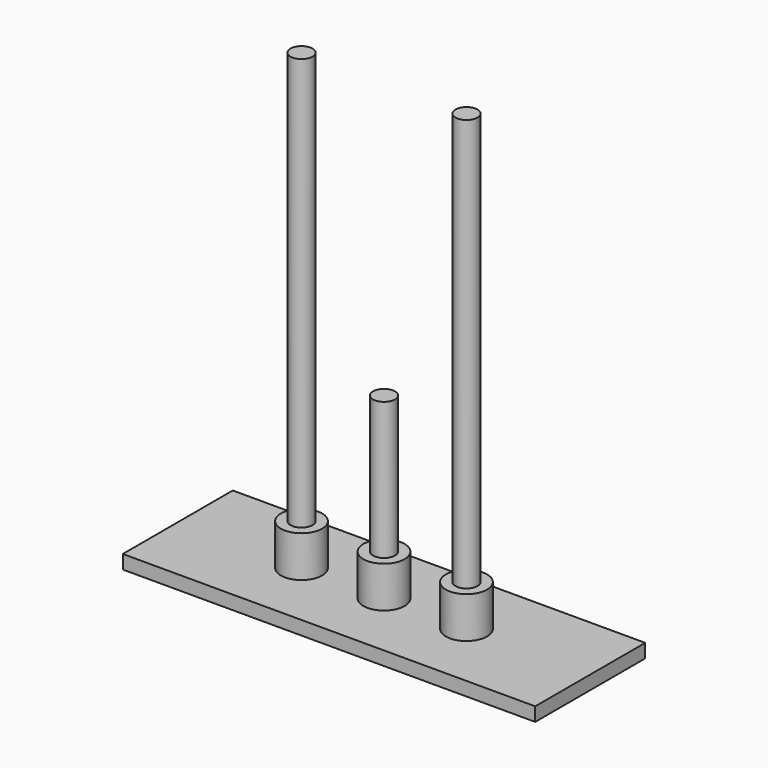
from build123d import *

# Parameters (mm, degrees)
F0_W     = 150
F0_H     = 50
F1_DEPTH = 5
F2_R     = 7.5
F3_DEPTH = 15
F4_R     = 4
F5_DEPTH = 150
F6_R     = 4
F7_DEPTH = 50


with BuildPart() as f1:
    # F0 (on Top) → F1 (new body)
    with BuildSketch(Plane.XY):
        with Locations((75, 25)):
            Rectangle(F0_W, F0_H)
    extrude(amount=F1_DEPTH)

    # F2 (on face) → F3 (join)
    with BuildSketch(Plane.XY.offset(5)):
        with Locations((45, 25)):
            Circle(F2_R)
        with Locations((75, 25)):
            Circle(F2_R)
        with Locations((105, 25)):
            Circle(F2_R)
    extrude(amount=F3_DEPTH)

    # F4 (on face) → F5 (join)
    with BuildSketch(Plane.XY.offset(20)):
        with Locations((45, 25)):
            Circle(F4_R)
        with Locations((105, 25)):
            Circle(F4_R)
    extrude(amount=F5_DEPTH)

    # F6 (on face) → F7 (join)
    with BuildSketch(Plane.XY.offset(20)):
        with Locations((75, 25)):
            Circle(F6_R)
    extrude(amount=F7_DEPTH)


solid = f1.part
